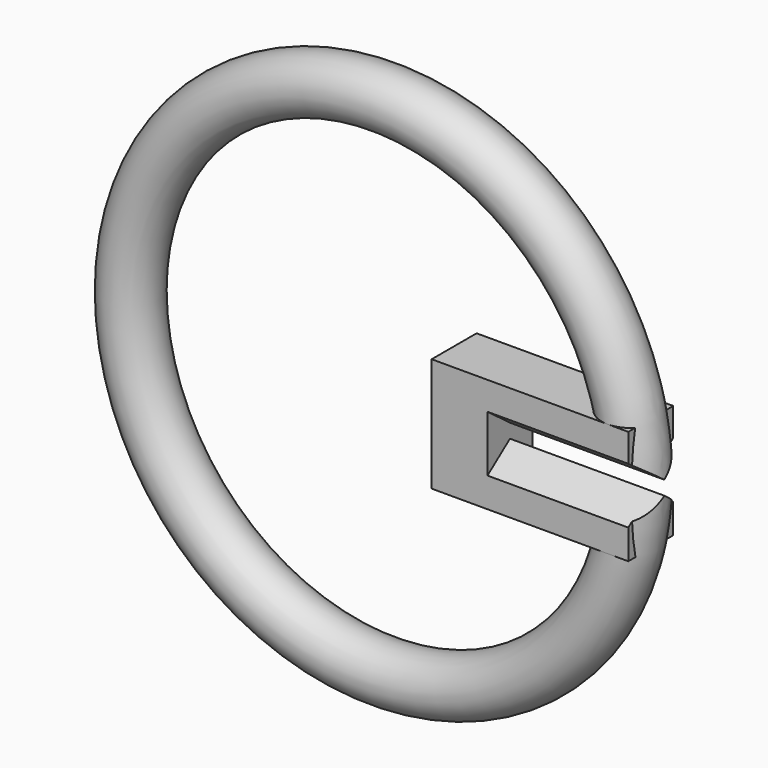
from build123d import *

# Parameters (mm, degrees)
F0_R          = 2
F3_DEPTH      = 2
F3_DEPTH_BACK = 2
F6_DEPTH      = 34


with BuildPart() as f1:
    # F0 (on Top) → F1 (revolve)
    with BuildSketch(Plane.XY):
        Circle(F0_R)
    revolve(axis=Axis((-18, 1.301999, 0), (0, 1, 0)))

    # F2 (on Front) → F3 (join, two sides)
    with BuildSketch(Plane.XZ) as f3_sk:
        Polygon((1.025022, 4), (-12.974978, 4), (-12.974978, -4), (-12.974978, -4.111864), (1.025022, -4.111864), align=None)
    extrude(amount=F3_DEPTH)
    extrude(f3_sk.sketch, amount=-F3_DEPTH_BACK)

    # F5 (on offset) → F6 (cut)
    with BuildSketch(Plane.YZ.offset(25)):
        Polygon((0, 0.5), (-2, 2), (-2, -2), (0, -0.5), (2, -2), (2, 2), align=None)
    extrude(amount=-F6_DEPTH, mode=Mode.SUBTRACT)


solid = f1.part
